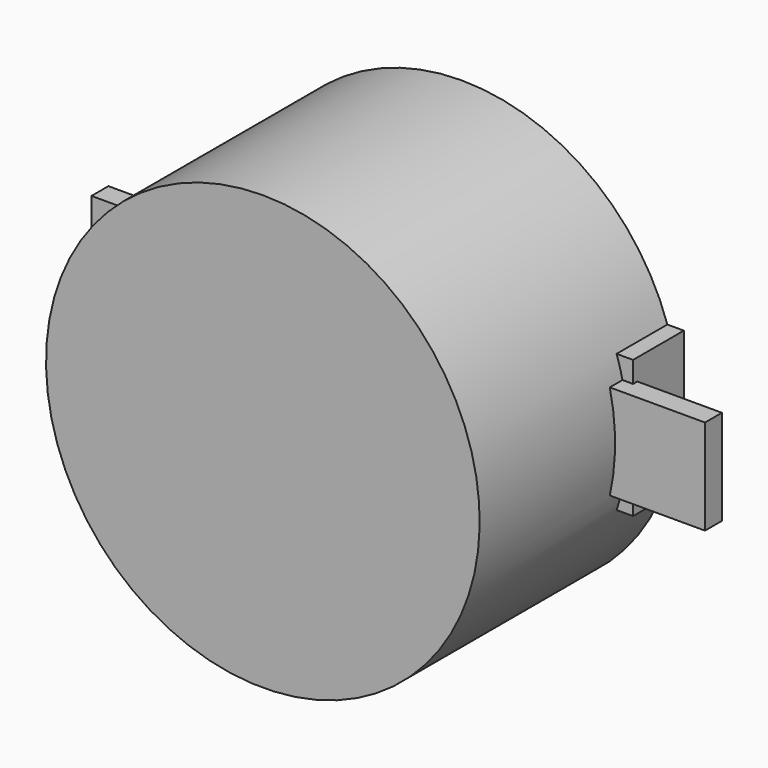
from build123d import *

# Parameters (mm, degrees)
BOX042_W                  = 13
BOX042_H                  = 42
BOX042_DEPTH              = 6
BOX043_W                  = 9
BOX043_H                  = 58
BOX043_DEPTH              = 2
CYLINDER024_R             = 20.5
CYLINDER024_DEPTH         = 23.5
FUSION001_PITCH_ANGLE     = -90
FUSION001_PLACEMENT_ANGLE = 90


with BuildPart() as cube022:
    # Box042 → Box042 (new body)
    with BuildSketch(Plane(origin=(-6.5, -21, 0), x_dir=(1, 0, 0), z_dir=(0, 0, 1))):
        with Locations((6.5, 21)):
            Rectangle(BOX042_W, BOX042_H)
    extrude(amount=BOX042_DEPTH)


with BuildPart() as cube023:
    # Box043 → Box043 (new body)
    with BuildSketch(Plane(origin=(-4.5, -29, 5.5), x_dir=(1, 0, 0), z_dir=(0, 0, 1))):
        with Locations((4.5, 29)):
            Rectangle(BOX043_W, BOX043_H)
    extrude(amount=BOX043_DEPTH)


with BuildPart() as speaker:
    # Cylinder024 → Cylinder024 (new body)
    with BuildSketch(Plane.XY):
        Circle(CYLINDER024_R)
    extrude(amount=CYLINDER024_DEPTH)

    # Fusion001: union Cube022, Cube023
    add(cube022.part)
    add(cube023.part)


with BuildPart() as speaker_1:
    # Fusion001 pitch: moved
    add(speaker.part.rotate(Axis((0, 0, 0), (0, 1, 0)), FUSION001_PITCH_ANGLE))


with BuildPart() as speaker_2:
    # Fusion001 placement: moved
    add(speaker_1.part.moved(Location((45, 86, 45))).rotate(Axis((45, 86, 45), (0, 0, 1)), FUSION001_PLACEMENT_ANGLE))


solid = speaker_2.part
